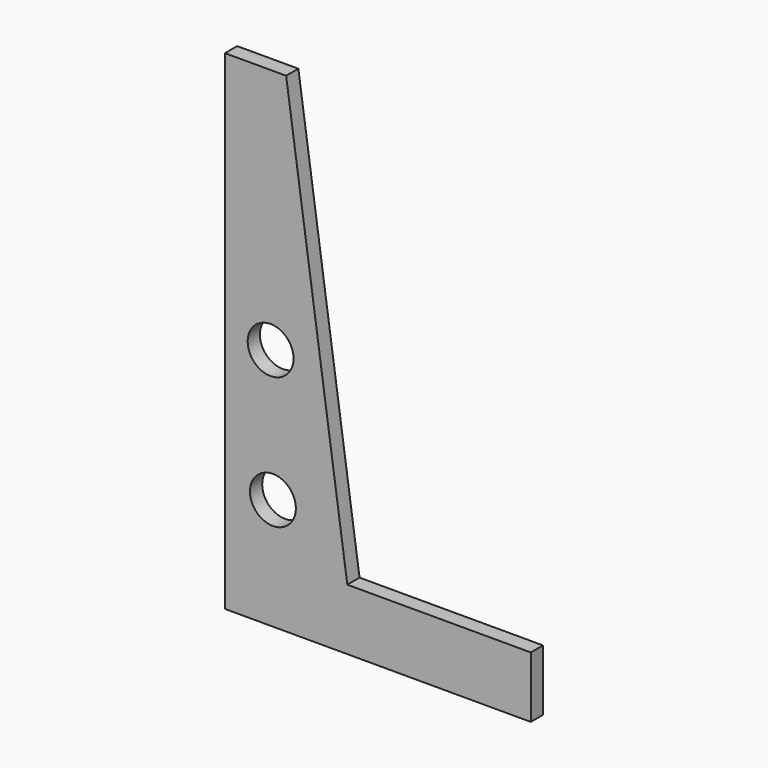
from build123d import *

# Parameters (mm, degrees)
F1_DEPTH = 3.175
F3_D     = 19.05


with BuildPart() as f1:
    # F0 (on Front) → F1 (new body, symmetric)
    with BuildSketch(Plane.XZ):
        Polygon((25.4, 177.8), (0, 177.8), (0, -25.4), (127, -25.4), (127, 0), (50.8, 0), align=None)
        Polygon((25.4, 177.8), (0, 177.8), (0, -25.4), (127, -25.4), (127, 0), (50.8, 0), align=None)
    extrude(amount=F1_DEPTH, both=True)

    # F3 (through all)
    with Locations(Plane.XZ.offset(3.175)):
        with Locations((18.947579, 75.414784), (19.903496, 20.927686)):
            Hole(F3_D / 2)


solid = f1.part
